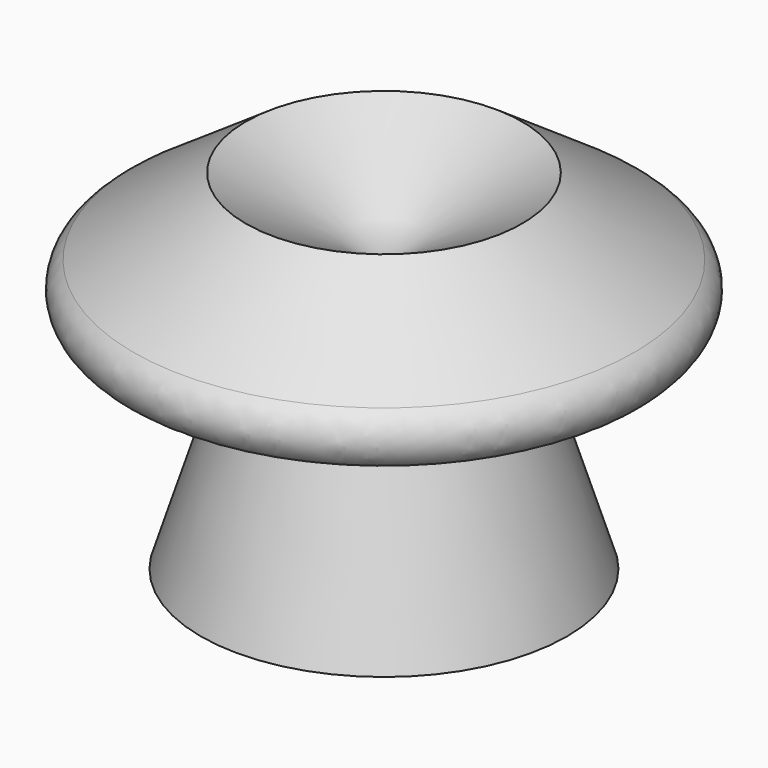
from build123d import *

# Parameters (mm, degrees)
F2_R = 5.08
F3_R = 0.508


with BuildPart() as f1:
    # F0 (on Front) → F1 (revolve)
    with BuildSketch(Plane.XZ):
        Polygon((-6.342808, -6.614644), (0, 0), (0, 25.824292), (-22.834111, 38.691133), (-49.111459, 20.750046), (-25.008788, 10.601551), (-17.578641, 21.293715), (-30.264258, -18.937815), align=None)
    revolve(axis=Axis((0, 0, 51.104914), (0, 0, 1)))

    # F2
    f2_edges = [f1.edges().sort_by_distance(p)[0] for p in [
        (49.111459, 0, 20.750046),
    ]]
    fillet(f2_edges, radius=F2_R)

    # F3
    f3_edges = [f1.edges().sort_by_distance(p)[0] for p in [
        (17.578641, 0, 21.293715),
    ]]
    fillet(f3_edges, radius=F3_R)


solid = f1.part
